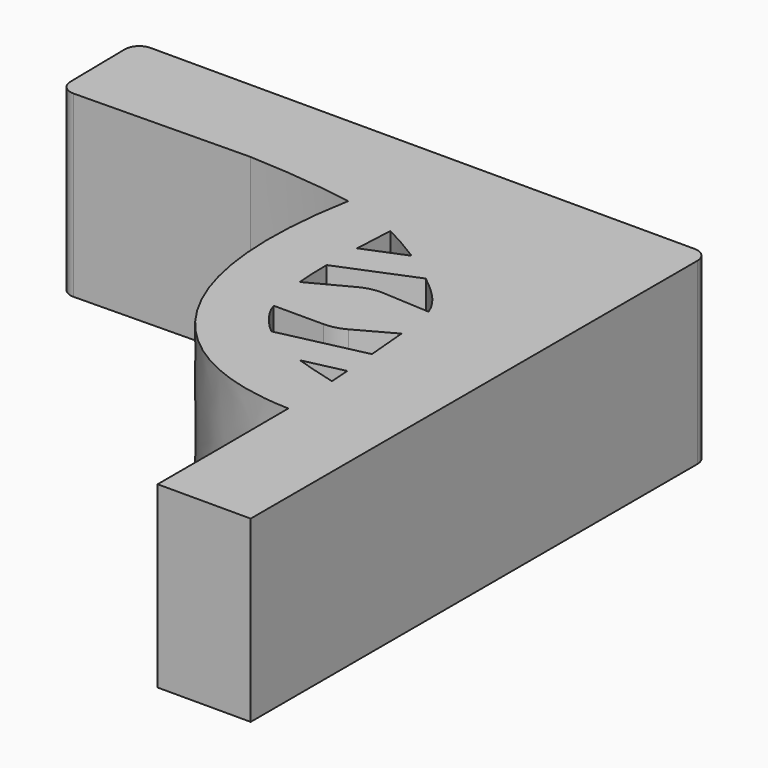
from build123d import *

# Parameters (mm, degrees)
F1_DEPTH = 25
F3_DEPTH = 25


with BuildPart() as f1:
    # F0 (on Top) → F1 (new body)
    with BuildSketch(Plane.XY):
        with BuildLine():
            Line((0, -80), (0, -2))
            ThreePointArc((0, -2), (-0.5857864376, -0.5857864376), (-2, 0))
            Line((-2, 0), (-77.9695956579, 0))
            ThreePointArc((-77.9695956579, 0), (-79.3944371446, -0.5964948388), (-79.9693680385, -2.0301732624))
            Line((-79.9693680385, -2.0301732624), (-79.8235436371, -11.6948759406))
            ThreePointArc((-79.8235436371, -11.6948759406), (-79.2164881491, -13.1000910078), (-77.793597994, -13.6644750587))
            Line((-77.793597994, -13.6644750587), (-53.4198508516, -13.2967154695))
            add(Edge.make_bspline(
                [(-53.4198508516, -13.2967154695), (-47.7391326457, -13.5155175895), (-42.3810972533, -14.1065922457), (-38.542901615, -14.7899318492)],
                knots=[0, 0, 0, 0, 0.162253053, 0.162253053, 0.162253053, 0.162253053], degree=3))
            add(Edge.make_bspline(
                [(-38.542901615, -14.7899318492), (-35.6620781643, -15.3028240882), (-33.637457964, -15.8676938778), (-30.542901615, -17.425809837)],
                knots=[0.162253053, 0.162253053, 0.162253053, 0.162253053, 0.28403486, 0.28403486, 0.28403486, 0.28403486], degree=3))
            add(Edge.make_bspline(
                [(-30.542901615, -17.425809837), (-26.1822221976, -19.6214215586), (-19.6969808737, -23.7893126338), (-16.9190281723, -27.1281322878)],
                knots=[0.28403486, 0.28403486, 0.28403486, 0.28403486, 0.4556431162, 0.4556431162, 0.4556431162, 0.4556431162], degree=3))
            add(Edge.make_bspline(
                [(-16.9190281723, -27.1281322878), (-15.0709363906, -29.3493526709), (-14.8636375386, -31.2036378987), (-14.5838867171, -34.1526714679)],
                knots=[0.4556431162, 0.4556431162, 0.4556431162, 0.4556431162, 0.5698091378, 0.5698091378, 0.5698091378, 0.5698091378], degree=3))
            add(Edge.make_bspline(
                [(-14.5838867171, -34.1526714679), (-14.185393399, -38.3534461651), (-13.6398891789, -44.7755537277), (-13.3562185193, -49.1226911473)],
                knots=[0.5698091378, 0.5698091378, 0.5698091378, 0.5698091378, 0.7324338497, 0.7324338497, 0.7324338497, 0.7324338497], degree=3))
            add(Edge.make_bspline(
                [(-13.3562185193, -49.1226911473), (-13.1491946262, -52.2952480614), (-13.0816268013, -54.3626480299), (-13.0485558451, -57.1167729382)],
                knots=[0.7324338497, 0.7324338497, 0.7324338497, 0.7324338497, 0.851117964, 0.851117964, 0.851117964, 0.851117964], degree=3))
            add(Edge.make_bspline(
                [(-13.0485558451, -57.1167729382), (-13.0070703326, -60.5716558966), (-13.0198697257, -65.1071818251), (-13, -69.7056261365)],
                knots=[0.851117964, 0.851117964, 0.851117964, 0.851117964, 1, 1, 1, 1], degree=3))
            Line((-13, -69.7056261365), (-13, -80))
            Line((-13, -80), (0, -80))
        make_face()
        with BuildLine():
            add(Edge.make_bspline(
                [(-38.542901615, -14.7899318492), (-40.9139160013, -27.8005372261), (-38.6884407603, -47.6270350351), (-23.5400479968, -56.7981427702), (-13.0485558451, -57.1167729382)],
                knots=[0, 0, 0, 0, 0.5296598009, 1, 1, 1, 1], degree=3))
            Line((-13.0485558451, -57.1167729382), (-13.3562185193, -49.1226911473))
            add(Edge.make_bspline(
                [(-28.0948624921, -41.658554015), (-25.10242463, -46.0305335019), (-19.1761098596, -47.5514449335), (-13.3562185193, -49.1226911473)],
                knots=[0.5483675118, 0.5483675118, 0.5483675118, 0.5483675118, 1, 1, 1, 1], degree=3))
            add(Edge.make_bspline(
                [(-29.6557347838, -38.4299094695), (-29.4003822649, -39.4415698152), (-29.0648385357, -40.4727694453), (-28.0948624921, -41.658554015)],
                knots=[2.4430203601, 2.4430203601, 2.4430203601, 2.4430203601, 5.8501597635, 5.8501597635, 5.8501597635, 5.8501597635], degree=3))
            add(Edge.make_bspline(
                [(-30.1900775171, -36.4835122599), (-30.0399059836, -37.1596607946), (-29.863001925, -37.8096107603), (-29.6557347838, -38.4299094695)],
                knots=[0.399285872, 0.399285872, 0.399285872, 0.399285872, 0.4502459731, 0.4502459731, 0.4502459731, 0.4502459731], degree=3))
            add(Edge.make_bspline(
                [(-30.2856540448, -36.0319675746), (-30.2550717037, -36.1837342297), (-30.2232258771, -36.334261503), (-30.1900775171, -36.4835122599)],
                knots=[0.3880371104, 0.3880371104, 0.3880371104, 0.3880371104, 0.399285872, 0.399285872, 0.399285872, 0.399285872], degree=3))
            add(Edge.make_bspline(
                [(-30.542901615, -17.425809837), (-30.892076359, -24.086456269), (-31.3406220256, -30.7966273139), (-30.2856540448, -36.0319675746)],
                knots=[0, 0, 0, 0, 0.3880371104, 0.3880371104, 0.3880371104, 0.3880371104], degree=3))
            add(Edge.make_bspline(
                [(-38.542901615, -14.7899318492), (-35.6620781643, -15.3028240882), (-33.637457964, -15.8676938778), (-30.542901615, -17.425809837)],
                knots=[0.162253053, 0.162253053, 0.162253053, 0.162253053, 0.28403486, 0.28403486, 0.28403486, 0.28403486], degree=3))
        make_face()
        with BuildLine():
            Line((-13.3562185193, -49.1226911473), (-13.0485558451, -57.1167729382))
            add(Edge.make_bspline(
                [(-13.3562185193, -49.1226911473), (-13.1491946262, -52.2952480614), (-13.0816268013, -54.3626480299), (-13.0485558451, -57.1167729382)],
                knots=[0.7324338497, 0.7324338497, 0.7324338497, 0.7324338497, 0.851117964, 0.851117964, 0.851117964, 0.851117964], degree=3))
        make_face()
    extrude(amount=F1_DEPTH)

    # F2 (on Top) → F3 (join)
    with BuildSketch(Plane.XY):
        with BuildLine():
            Line((-25.0898172111, -30.0360443188), (-32.0051051676, -33.6804613471))
            Line((-32.0051051676, -33.6804613471), (-30.857918683, -39.1688235104))
            Line((-30.857918683, -39.1688235104), (-22.4874541369, -39.1688235104))
            ThreePointArc((-22.4874541369, -39.1688235104), (-20.9994273294, -38.981376841), (-19.6043757451, -38.4307489172))
            Line((-19.6043757451, -38.4307489172), (-12.428862974, -34.4991907477))
            Line((-12.428862974, -34.4991907477), (-13.2681293624, -29.8431319511))
            Line((-13.2681293624, -29.8431319511), (-21.9548307901, -29.3535438949))
            ThreePointArc((-21.9548307901, -29.3535438949), (-23.5687895254, -29.4813601163), (-25.0898172111, -30.0360443188))
        make_face()
        Polygon((-19.8781598252, -23.5392715438), (-23.3667287976, -19.8491029441), (-32.8251793981, -23.714505136), (-31.0336794844, -28.0982180313), align=None)
        Polygon((-11.7061119527, -40.9006923437), (-26.9871223718, -44.3079471588), (-25.5416221917, -48.8509498537), (-9.744361043, -45.3404448926), align=None)
    extrude(amount=F3_DEPTH)


solid = f1.part
